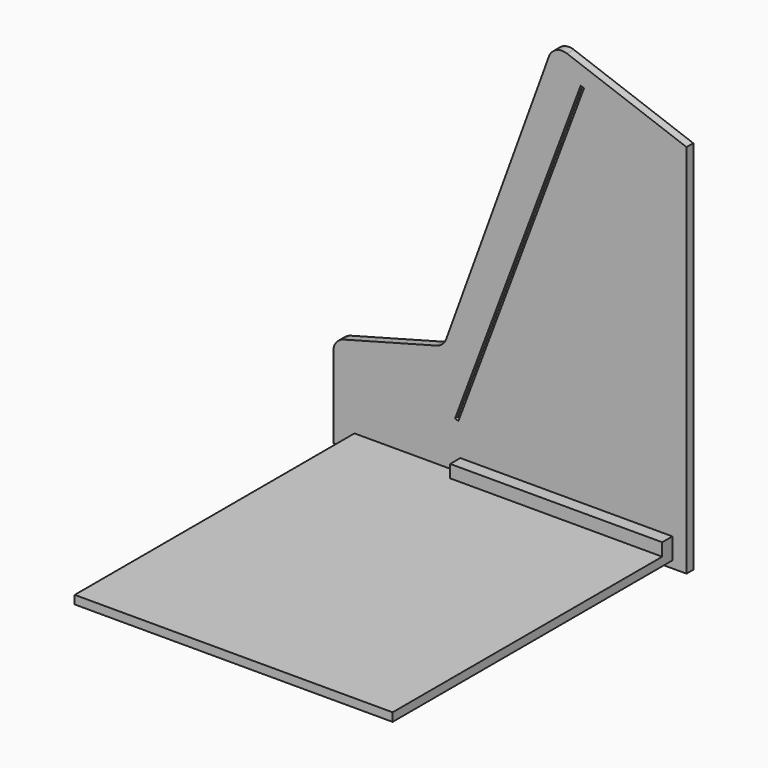
from build123d import *

# Parameters (mm, degrees)
PAD_DEPTH       = 12
POCKET_DEPTH    = 1
FILLET_R        = 20
FILLET001_R     = 20
FILLET002_R     = 20
POCKET001_DEPTH = 5
SKETCH004_W     = 450
SKETCH004_H     = 12
PAD001_DEPTH    = 495
SKETCH005_W     = 300.149746
SKETCH005_H     = 18
PAD002_DEPTH    = 18


with BuildPart() as part:
    # Sketch001 → Pad (new body)
    with BuildSketch(Plane.XZ):
        Polygon((-20, -20), (-20, 110), (136.232082, 151.86226), (292.061476, 580), (480, 511.595971), (480, -20), align=None)
    extrude(amount=-PAD_DEPTH)

    # Sketch002 (on Face7 of Pad) → Pocket (cut)
    with BuildSketch(Plane.XZ):
        Polygon((465, -5), (465, 501.092858), (301.026563, 560.774309), (147.656805, 139.394363), (-5, 98.490095), (-5, -5), align=None)
    extrude(amount=POCKET_DEPTH, mode=Mode.SUBTRACT)

    # Fillet
    fillet_edges = [part.edges().sort_by_distance(p)[0] for p in [
        (-20, 6, 110),
    ]]
    fillet(fillet_edges, radius=FILLET_R)

    # Fillet001
    fillet001_edges = [part.edges().sort_by_distance(p)[0] for p in [
        (136.232082, 6, 151.86226),
    ]]
    fillet(fillet001_edges, radius=FILLET001_R)

    # Fillet002
    fillet002_edges = [part.edges().sort_by_distance(p)[0] for p in [
        (292.061476, 6, 580),
    ]]
    fillet(fillet002_edges, radius=FILLET002_R)

    # Sketch003 (on Face7 of Pocket) → Pocket001 (cut)
    with BuildSketch(Plane.XZ):
        Polygon((334.938299, 537.791251), (157.051626, 65.158909), (152.372098, 66.920163), (330.258771, 539.552506), align=None)
    extrude(amount=-POCKET001_DEPTH, mode=Mode.SUBTRACT)

    # Sketch004 (on Face11 of Pocket001) → Pad001 (join)
    with BuildSketch(Plane.XZ):
        with Locations((235, -4)):
            Rectangle(SKETCH004_W, SKETCH004_H)
    extrude(amount=PAD001_DEPTH)

    # Sketch005 (on Face1 of Pad001) → Pad002 (join)
    with BuildSketch(Plane.XZ):
        with Locations((309.925127, 11)):
            Rectangle(SKETCH005_W, SKETCH005_H)
    extrude(amount=PAD002_DEPTH)


solid = part.part
